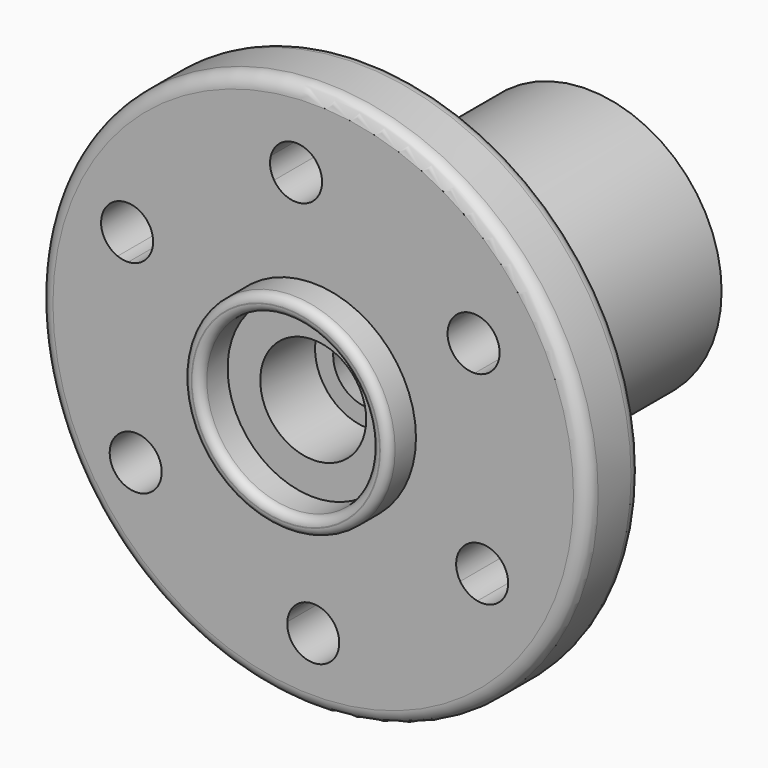
from build123d import *

# Parameters (mm, degrees)
F0_R     = 50.8
F0_R_2   = 24.4152864436
F0_R_3   = 14.7083689978
F0_R_4   = 9.8191512815
F1_DEPTH = 12.7
F2_R     = 24.9173840561
F2_R_2   = 19.2210647441
F3_DEPTH = 50.8
F7_R     = 19.05
F7_R_2   = 15.875
F8_DEPTH = 6.35
F9_R     = 1.524
F10_R    = 2.54


with BuildPart() as f1:
    # F0 (on Front) → F1 (new body)
    with BuildSketch(Plane.XZ):
        Circle(F0_R)
        with BuildLine():
            ThreePointArc((4.8233222323, -38.1), (-0.1527303768, -42.9209035241), (-4.8136498253, -37.7946924231))
            ThreePointArc((-4.8136498253, -37.7946924231), (-18.3999542583, -33.3624292175), (-29.3974979615, -24.2362768099))
            ThreePointArc((-29.3974979615, -24.2362768099), (-36.9844148106, -23.5242456402), (-34.4130307135, -16.3509423923))
            ThreePointArc((-34.4130307135, -16.3509423923), (-38.0164573377, -2.5217001197), (-36.2712015434, 11.6623298959))
            ThreePointArc((-36.2712015434, 11.6623298959), (-38.8755747903, 18.1961885071), (-32.1899666774, 20.3817576599))
            ThreePointArc((-32.1899666774, 20.3817576599), (-21.7323643265, 31.2939984786), (-7.8547610469, 37.2815333496))
            ThreePointArc((-7.8547610469, 37.2815333496), (-3.6092020095, 40.8787866416), (1.2009713639, 38.0810670515))
            ThreePointArc((1.2009713639, 38.0810670515), (17.0828495941, 34.0556346255), (29.8056914767, 23.7324831317))
            ThreePointArc((29.8056914767, 23.7324831317), (33.1670019723, 22.2933561664), (34.5529237527, 18.9097611124))
            ThreePointArc((34.5529237527, 18.9097611124), (34.4459537327, 17.8995833234), (34.1297883633, 16.9342123016))
            ThreePointArc((34.1297883633, 16.9342123016), (37.0941702741, 8.6966965958), (38.1, 0))
            ThreePointArc((38.1, 0), (37.3167165393, -7.6858744934), (34.9990726127, -15.0557270251))
            ThreePointArc((34.9990726126, -15.0557270251), (35.8497747537, -16.5146045982), (36.1454234548, -18.1773161641))
            ThreePointArc((36.1454234548, -18.1773161641), (34.4035372294, -21.8880020161), (30.4360020939, -22.9185465626))
            ThreePointArc((30.4360020939, -22.9185465626), (19.1300658394, -32.949212145), (4.8136498253, -37.7946924231))
            ThreePointArc((4.8136498253, -37.7946924231), (4.8209035241, -37.9472696232), (4.8233222323, -38.1))
        make_face(mode=Mode.SUBTRACT)
        with BuildLine():
            Line((-28.6378667765, -23.1658492328), (-4.2767341482, -35.8697573266))
            ThreePointArc((-4.2767341482, -35.8697573266), (-0.2069202623, -33.2811182457), (4.0698138859, -35.5113609191))
            Line((4.0698138859, -35.5113609191), (27.2522873366, -20.765955245))
            ThreePointArc((27.2522873366, -20.765955245), (27.0453670743, -15.9470734907), (31.1151809602, -13.3584344098))
            Line((31.1151809602, -13.3584344098), (29.9365217826, 14.0908793581))
            ThreePointArc((29.9365217826, 14.0908793581), (25.6597876344, 16.3211220315), (25.4528673721, 21.1400037858))
            Line((25.4528673721, 21.1400037858), (1.0917347439, 33.8439118796))
            ThreePointArc((1.0917347439, 33.8439118796), (-2.978079142, 31.2552727988), (-7.2548132903, 33.4855154722))
            Line((-7.2548132903, 33.4855154722), (-30.437286741, 18.7401097981))
            ThreePointArc((-30.437286741, 18.7401097981), (-29.8759851482, 17.4995088397), (-29.6837783945, 16.1514707172))
            ThreePointArc((-29.6837783945, 16.1514707172), (-31.0241076281, 12.814826126), (-34.3001803645, 11.3325889629))
            Line((-34.3001803645, 11.3325889629), (-33.121521187, -16.116724805))
            ThreePointArc((-33.121521187, -16.116724805), (-29.5779563335, -17.4526135606), (-28.0912786923, -20.9356065593))
            ThreePointArc((-28.0912786923, -20.9356065593), (-28.229918211, -22.0837290393), (-28.6378667765, -23.1658492328))
        make_face()
        Circle(F0_R_2, mode=Mode.SUBTRACT)
        Circle(F0_R_2)
        Circle(F0_R_3, mode=Mode.SUBTRACT)
        Circle(F0_R_3)
        Circle(F0_R_4, mode=Mode.SUBTRACT)
        with BuildLine():
            Line((29.9365217826, 14.0908793581), (31.1151809602, -13.3584344098))
            ThreePointArc((31.1151809602, -13.3584344098), (33.2535551471, -13.757596366), (34.9990726126, -15.0557270251))
            ThreePointArc((34.9990726127, -15.0557270251), (37.3167165393, -7.6858744934), (38.1, 0))
            ThreePointArc((38.1, 0), (37.0941702741, 8.6966965958), (34.1297883633, 16.9342123016))
            ThreePointArc((34.1297883633, 16.9342123016), (32.4365360461, 14.91765104), (29.9365217826, 14.0908793581))
        make_face()
        with BuildLine():
            Line((27.2522873366, -20.765955245), (4.0698138859, -35.5113609191))
            ThreePointArc((4.0698138859, -35.5113609191), (4.5861075616, -36.6059937113), (4.8136498253, -37.7946924231))
            ThreePointArc((4.8136498253, -37.7946924231), (19.1300658394, -32.949212145), (30.4360020939, -22.9185465626))
            ThreePointArc((30.4360020939, -22.9185465626), (28.6204941458, -22.1730334414), (27.2522873366, -20.765955245))
        make_face()
        with BuildLine():
            ThreePointArc((-4.8136498253, -37.7946924231), (-4.6459782584, -36.8041128988), (-4.2767341482, -35.8697573266))
            Line((-4.2767341482, -35.8697573266), (-28.6378667765, -23.1658492328))
            ThreePointArc((-28.6378667765, -23.1658492328), (-28.98110019, -23.7270236417), (-29.3974979615, -24.2362768099))
            ThreePointArc((-29.3974979615, -24.2362768099), (-18.3999542583, -33.3624292175), (-4.8136498253, -37.7946924231))
        make_face()
        with BuildLine():
            ThreePointArc((-36.2712015434, 11.6623298959), (-38.0164573377, -2.5217001197), (-34.4130307135, -16.3509423923))
            ThreePointArc((-34.4130307135, -16.3509423923), (-33.7752804055, -16.1896958787), (-33.121521187, -16.116724805))
            Line((-33.121521187, -16.116724805), (-34.3001803645, 11.3325889629))
            ThreePointArc((-34.3001803645, 11.3325889629), (-35.3029556188, 11.3942601702), (-36.2712015434, 11.6623298959))
        make_face()
        with BuildLine():
            ThreePointArc((-7.8547610469, 37.2815333496), (-21.7323643265, 31.2939984786), (-32.1899666774, 20.3817576599))
            ThreePointArc((-32.1899666774, 20.3817576599), (-31.209824844, 19.6717561841), (-30.437286741, 18.7401097981))
            Line((-30.437286741, 18.7401097981), (-7.2548132903, 33.4855154722))
            ThreePointArc((-7.2548132903, 33.4855154722), (-7.9491869569, 35.3211908614), (-7.8547610469, 37.2815333496))
        make_face()
        with BuildLine():
            Line((1.0917347439, 33.8439118796), (25.4528673721, 21.1400037858))
            ThreePointArc((25.4528673721, 21.1400037858), (27.2614868155, 23.0537745246), (29.8056914767, 23.7324831317))
            ThreePointArc((29.8056914767, 23.7324831317), (17.0828495941, 34.0556346255), (1.2009713639, 38.0810670515))
            ThreePointArc((1.2009713639, 38.0810670515), (1.5277167803, 37.1011616221), (1.638322828, 36.0741545531))
            ThreePointArc((1.638322828, 36.0741545531), (1.4996833093, 34.9260320731), (1.0917347439, 33.8439118796))
        make_face()
    extrude(amount=F1_DEPTH)

    # F2 (on Front) → F3 (join)
    with BuildSketch(Plane.XZ):
        Circle(F2_R)
        Circle(F2_R_2, mode=Mode.SUBTRACT)
    extrude(amount=-F3_DEPTH)

    # F5 (on Right) → F6 (revolve)
    with BuildSketch(Plane.YZ):
        Polygon((50.8, -19.1665568061), (0, -6.4665568061), (0, -19.1665568061), align=None)
    revolve(axis=Axis((0, 25.7261283696, 0), (0, -1, 0)))

    # F7 (on face) → F8 (join)
    with BuildSketch(Plane.XZ.offset(12.7)):
        Circle(F7_R)
        Circle(F7_R_2, mode=Mode.SUBTRACT)
    extrude(amount=F8_DEPTH)

    # F9
    f9_edges = [f1.edges().sort_by_distance(p)[0] for p in [
        (-19.05, -19.05, 0),
        (-15.875, -19.05, 0),
    ]]
    fillet(f9_edges, radius=F9_R)

    # F10
    f10_edges = [f1.edges().sort_by_distance(p)[0] for p in [
        (-50.8, -12.7, 0),
        (-50.8, 0, 0),
    ]]
    fillet(f10_edges, radius=F10_R)


solid = f1.part
